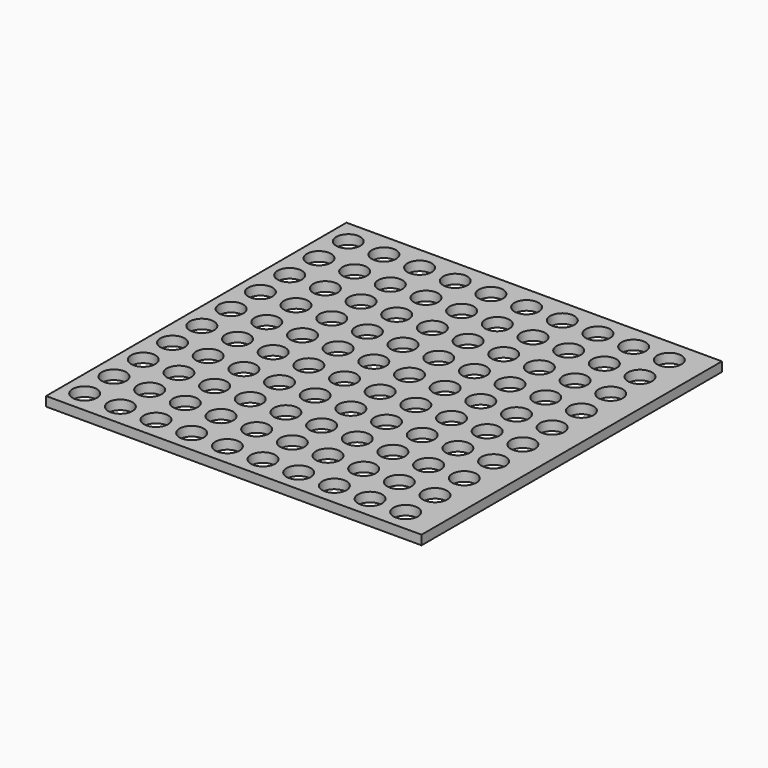
from build123d import *

# Parameters (mm, degrees)
F0_W     = 400
F0_H     = 400
F1_DEPTH = 10
F2_R     = 12.898904
F3_DEPTH = 13


with BuildPart() as f1:
    # F0 (on Top) → F1 (new body)
    with BuildSketch(Plane.XY):
        Rectangle(F0_W, F0_H)
    extrude(amount=F1_DEPTH)

    # F2 (on face) → F3 (cut)
    with BuildSketch(Plane.XY.offset(10)):
        with Locations((164.230794, -176.38047)):
            Circle(F2_R)
        with Locations((164.230794, -137.38047)):
            Circle(F2_R)
        with Locations((164.230794, -98.38047)):
            Circle(F2_R)
        with Locations((164.230794, -59.38047)):
            Circle(F2_R)
        with Locations((164.230794, -20.38047)):
            Circle(F2_R)
        with Locations((164.230794, 18.61953)):
            Circle(F2_R)
        with Locations((164.230794, 57.61953)):
            Circle(F2_R)
        with Locations((164.230794, 96.61953)):
            Circle(F2_R)
        with Locations((164.230794, 135.61953)):
            Circle(F2_R)
        with Locations((164.230794, 174.61953)):
            Circle(F2_R)
        with Locations((126.230794, -176.38047)):
            Circle(F2_R)
        with Locations((126.230794, -137.38047)):
            Circle(F2_R)
        with Locations((126.230794, -98.38047)):
            Circle(F2_R)
        with Locations((126.230794, -59.38047)):
            Circle(F2_R)
        with Locations((126.230794, -20.38047)):
            Circle(F2_R)
        with Locations((126.230794, 18.61953)):
            Circle(F2_R)
        with Locations((126.230794, 57.61953)):
            Circle(F2_R)
        with Locations((126.230794, 96.61953)):
            Circle(F2_R)
        with Locations((126.230794, 135.61953)):
            Circle(F2_R)
        with Locations((126.230794, 174.61953)):
            Circle(F2_R)
        with Locations((88.230794, -176.38047)):
            Circle(F2_R)
        with Locations((88.230794, -137.38047)):
            Circle(F2_R)
        with Locations((88.230794, -98.38047)):
            Circle(F2_R)
        with Locations((88.230794, -59.38047)):
            Circle(F2_R)
        with Locations((88.230794, -20.38047)):
            Circle(F2_R)
        with Locations((88.230794, 18.61953)):
            Circle(F2_R)
        with Locations((88.230794, 57.61953)):
            Circle(F2_R)
        with Locations((88.230794, 96.61953)):
            Circle(F2_R)
        with Locations((88.230794, 135.61953)):
            Circle(F2_R)
        with Locations((88.230794, 174.61953)):
            Circle(F2_R)
        with Locations((50.230794, -176.38047)):
            Circle(F2_R)
        with Locations((50.230794, -137.38047)):
            Circle(F2_R)
        with Locations((50.230794, -98.38047)):
            Circle(F2_R)
        with Locations((50.230794, -59.38047)):
            Circle(F2_R)
        with Locations((50.230794, -20.38047)):
            Circle(F2_R)
        with Locations((50.230794, 18.61953)):
            Circle(F2_R)
        with Locations((50.230794, 57.61953)):
            Circle(F2_R)
        with Locations((50.230794, 96.61953)):
            Circle(F2_R)
        with Locations((50.230794, 135.61953)):
            Circle(F2_R)
        with Locations((50.230794, 174.61953)):
            Circle(F2_R)
        with Locations((12.230794, -176.38047)):
            Circle(F2_R)
        with Locations((12.230794, -137.38047)):
            Circle(F2_R)
        with Locations((12.230794, -98.38047)):
            Circle(F2_R)
        with Locations((12.230794, -59.38047)):
            Circle(F2_R)
        with Locations((12.230794, -20.38047)):
            Circle(F2_R)
        with Locations((12.230794, 18.61953)):
            Circle(F2_R)
        with Locations((12.230794, 57.61953)):
            Circle(F2_R)
        with Locations((12.230794, 96.61953)):
            Circle(F2_R)
        with Locations((12.230794, 135.61953)):
            Circle(F2_R)
        with Locations((12.230794, 174.61953)):
            Circle(F2_R)
        with Locations((-25.769206, -176.38047)):
            Circle(F2_R)
        with Locations((-25.769206, -137.38047)):
            Circle(F2_R)
        with Locations((-25.769206, -98.38047)):
            Circle(F2_R)
        with Locations((-25.769206, -59.38047)):
            Circle(F2_R)
        with Locations((-25.769206, -20.38047)):
            Circle(F2_R)
        with Locations((-25.769206, 18.61953)):
            Circle(F2_R)
        with Locations((-25.769206, 57.61953)):
            Circle(F2_R)
        with Locations((-25.769206, 96.61953)):
            Circle(F2_R)
        with Locations((-25.769206, 135.61953)):
            Circle(F2_R)
        with Locations((-25.769206, 174.61953)):
            Circle(F2_R)
        with Locations((-63.769206, -176.38047)):
            Circle(F2_R)
        with Locations((-63.769206, -137.38047)):
            Circle(F2_R)
        with Locations((-63.769206, -98.38047)):
            Circle(F2_R)
        with Locations((-63.769206, -59.38047)):
            Circle(F2_R)
        with Locations((-63.769206, -20.38047)):
            Circle(F2_R)
        with Locations((-63.769206, 18.61953)):
            Circle(F2_R)
        with Locations((-63.769206, 57.61953)):
            Circle(F2_R)
        with Locations((-63.769206, 96.61953)):
            Circle(F2_R)
        with Locations((-63.769206, 135.61953)):
            Circle(F2_R)
        with Locations((-63.769206, 174.61953)):
            Circle(F2_R)
        with Locations((-101.769206, -176.38047)):
            Circle(F2_R)
        with Locations((-101.769206, -137.38047)):
            Circle(F2_R)
        with Locations((-101.769206, -98.38047)):
            Circle(F2_R)
        with Locations((-101.769206, -59.38047)):
            Circle(F2_R)
        with Locations((-101.769206, -20.38047)):
            Circle(F2_R)
        with Locations((-101.769206, 18.61953)):
            Circle(F2_R)
        with Locations((-101.769206, 57.61953)):
            Circle(F2_R)
        with Locations((-101.769206, 96.61953)):
            Circle(F2_R)
        with Locations((-101.769206, 135.61953)):
            Circle(F2_R)
        with Locations((-101.769206, 174.61953)):
            Circle(F2_R)
        with Locations((-139.769206, -176.38047)):
            Circle(F2_R)
        with Locations((-139.769206, -137.38047)):
            Circle(F2_R)
        with Locations((-139.769206, -98.38047)):
            Circle(F2_R)
        with Locations((-139.769206, -59.38047)):
            Circle(F2_R)
        with Locations((-139.769206, -20.38047)):
            Circle(F2_R)
        with Locations((-139.769206, 18.61953)):
            Circle(F2_R)
        with Locations((-139.769206, 57.61953)):
            Circle(F2_R)
        with Locations((-139.769206, 96.61953)):
            Circle(F2_R)
        with Locations((-139.769206, 135.61953)):
            Circle(F2_R)
        with Locations((-139.769206, 174.61953)):
            Circle(F2_R)
        with Locations((-177.769206, -176.38047)):
            Circle(F2_R)
        with Locations((-177.769206, -137.38047)):
            Circle(F2_R)
        with Locations((-177.769206, -98.38047)):
            Circle(F2_R)
        with Locations((-177.769206, -59.38047)):
            Circle(F2_R)
        with Locations((-177.769206, -20.38047)):
            Circle(F2_R)
        with Locations((-177.769206, 18.61953)):
            Circle(F2_R)
        with Locations((-177.769206, 57.61953)):
            Circle(F2_R)
        with Locations((-177.769206, 96.61953)):
            Circle(F2_R)
        with Locations((-177.769206, 135.61953)):
            Circle(F2_R)
        with Locations((-177.769206, 174.61953)):
            Circle(F2_R)
    extrude(amount=-F3_DEPTH, mode=Mode.SUBTRACT)


solid = f1.part
